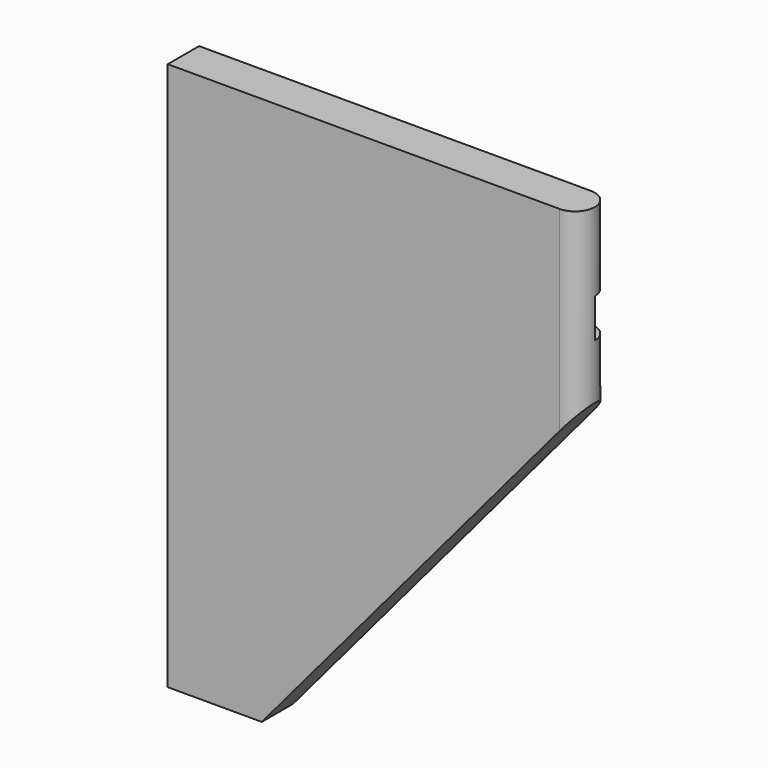
from build123d import *

# Parameters (mm, degrees)
F1_DEPTH = 350
F2_W     = 12.5
F2_H     = 25
F3_DEPTH = 262.501
F5_DEPTH = 25.001


with BuildPart() as f1:
    # F0 (on Top) → F1 (new body)
    with BuildSketch(Plane.XY):
        with BuildLine():
            Line((0, 25), (0, 0))
            Line((0, 0), (250, 0))
            ThreePointArc((250, 0), (262.5, 12.5), (250, 25))
            Line((250, 25), (0, 25))
        make_face()
    extrude(amount=F1_DEPTH)

    # F2 (on face) → F3 (cut, through all)
    with BuildSketch(Plane(origin=(0, 0, 0), x_dir=(0, -1, 0), z_dir=(-1, 0, 0))):
        with Locations((-18.75, 287.5)):
            Rectangle(F2_W, F2_H)
    extrude(amount=-F3_DEPTH, mode=Mode.SUBTRACT)

    # F4 (on face) → F5 (cut, through all)
    with BuildSketch(Plane.XZ):
        Polygon((250, 0), (250, 225.185185), (60, 0), align=None)
        Polygon((262.5, 0), (262.5, 240), (250, 225.185185), (250, 0), align=None)
    extrude(amount=-F5_DEPTH, mode=Mode.SUBTRACT)


solid = f1.part
